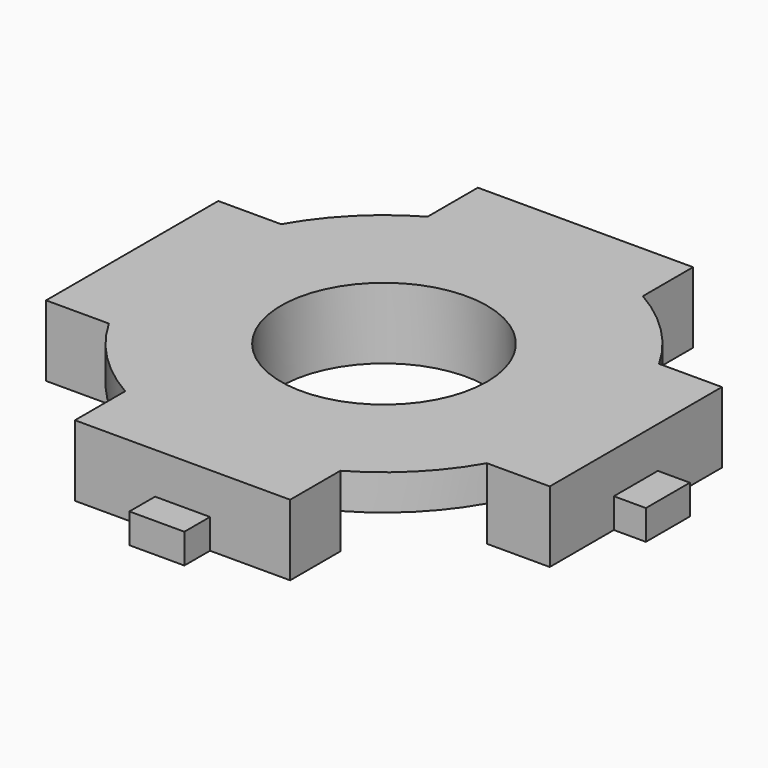
from build123d import *

# Parameters (mm, degrees)
SKETCH022_R           = 4.75
SKETCH022_R_2         = 2.25
PAD011_DEPTH          = 1.55
SKETCH023_W           = 4.7
SKETCH023_H           = 2
PAD012_DEPTH          = 1.55
SKETCH025_W           = 1.2
SKETCH025_H           = 0.7
PAD013_DEPTH          = 0.65
POLARPATTERN003_COUNT = 4
SKETCH024_R           = 4.75
SKETCH024_R_2         = 2.75
POCKET009_DEPTH       = 0.775


with BuildPart() as part:
    # Sketch022 → Pad011 (new body)
    with BuildSketch(Plane.XY):
        Circle(SKETCH022_R)
        Circle(SKETCH022_R_2, mode=Mode.SUBTRACT)
    extrude(amount=-PAD011_DEPTH)

    # Sketch023 → Pad012 (join)
    with BuildSketch(Plane.XY):
        with Locations((0, -4.5)):
            Rectangle(SKETCH023_W, SKETCH023_H)
    pad012 = extrude(amount=-PAD012_DEPTH)

    # Sketch025 → Pad013 (join)
    with BuildSketch(Plane.XY.offset(-1.55)):
        with Locations((0, -5.85)):
            Rectangle(SKETCH025_W, SKETCH025_H)
    pad013 = extrude(amount=PAD013_DEPTH)

    # PolarPattern003: Pad012, Pad013 ×4 about axis
    polarpattern003_axis = Axis((0, 0, 0), (0, 0, 1))
    for i in range(1, POLARPATTERN003_COUNT):
        add(pad012.rotate(polarpattern003_axis, i * 360 / POLARPATTERN003_COUNT))
        add(pad013.rotate(polarpattern003_axis, i * 360 / POLARPATTERN003_COUNT))

    # Sketch024 → Pocket009 (cut)
    with BuildSketch(Plane.XY.offset(-1.55)):
        Circle(SKETCH024_R)
        Circle(SKETCH024_R_2, mode=Mode.SUBTRACT)
    extrude(amount=POCKET009_DEPTH, mode=Mode.SUBTRACT)


with BuildPart() as part_1:
    # Body002 placement: moved
    add(part.part.moved(Location((0, 0, -1))))


solid = part_1.part
